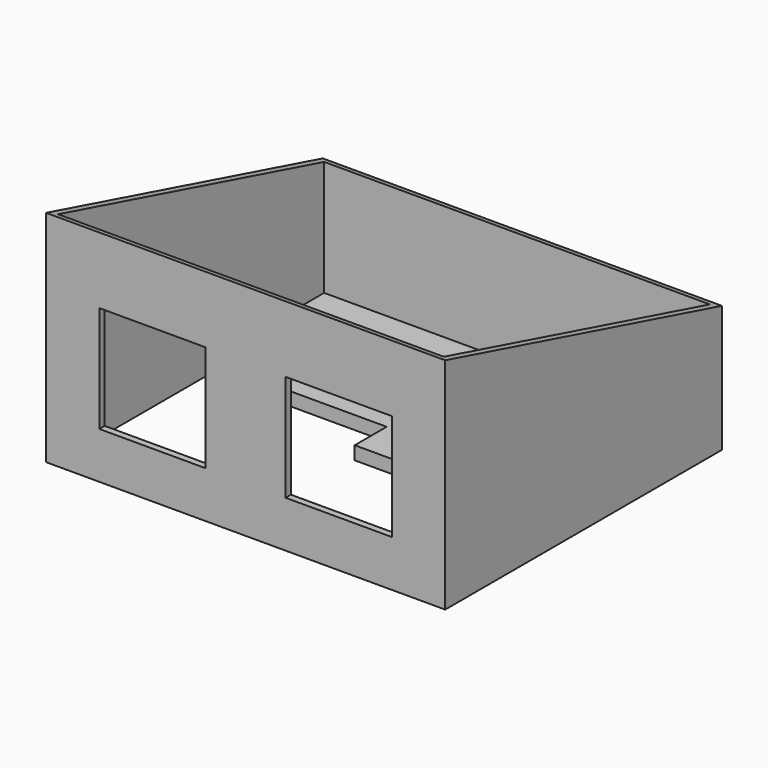
from build123d import *

# Parameters (mm, degrees)
F0_W      = 9144
F0_H      = 7924.8
F1_DEPTH  = 7620
F3_DEPTH  = 9144.001
F4_T      = -152.4
F5_W      = 914.4
F5_H      = 2133.6
F5_W_2    = 2438.4
F5_H_2    = 2438.4
F5_W_3    = 1828.8
F5_H_3    = 1524
F6_DEPTH  = 152.4
F9_DEPTH  = 304.8
F10_W     = 7924.8
F10_H     = 2590.8
F11_DEPTH = 9144.001


with BuildPart() as f1:
    # F0 (on Top) → F1 (new body)
    with BuildSketch(Plane.XY):
        Rectangle(F0_W, F0_H)
    extrude(amount=F1_DEPTH)

    # F2 (on face) → F3 (cut, through all)
    with BuildSketch(Plane.YZ.offset(4572)):
        Polygon((3962.4, 7620), (-3962.4, 7620), (3962.4, 5496.5562398218), align=None)
    extrude(amount=-F3_DEPTH, mode=Mode.SUBTRACT)

    # F4
    f4_openings = [f1.faces().sort_by_distance(p)[0] for p in [
        (0, 0, 6558.27812),
    ]]
    offset(amount=F4_T, openings=f4_openings)

    # F5 (on face) → F6 (cut, through all)
    with BuildSketch(Plane.XZ.offset(3962.4)):
        with Locations((0, 1219.2)):
            Rectangle(F5_W, F5_H)
        with Locations((-2133.6, 4876.8)):
            Rectangle(F5_W_2, F5_H_2)
        with Locations((2133.6, 4876.8)):
            Rectangle(F5_W_2, F5_H_2)
        with Locations((-2438.4, 1676.4)):
            Rectangle(F5_W_3, F5_H_3)
        with Locations((2438.4, 1676.4)):
            Rectangle(F5_W_3, F5_H_3)
    extrude(amount=-F6_DEPTH, mode=Mode.SUBTRACT)

    # F8 (on offset) → F9 (join)
    with BuildSketch(Plane.XY.offset(2590.8)):
        Polygon((4419.6, 3810), (-4419.6, 3810), (-4419.6, 457.2), (-304.8, 457.2), (-304.8, -457.2), (4419.6, -457.2), align=None)
    extrude(amount=F9_DEPTH)

    # F10 (on face) → F11 (cut, through all)
    with BuildSketch(Plane(origin=(-4572, 0, 0), x_dir=(0, -1, 0), z_dir=(-1, 0, 0))):
        with Locations((0, 1295.4)):
            Rectangle(F10_W, F10_H)
    extrude(amount=-F11_DEPTH, mode=Mode.SUBTRACT)


solid = f1.part
